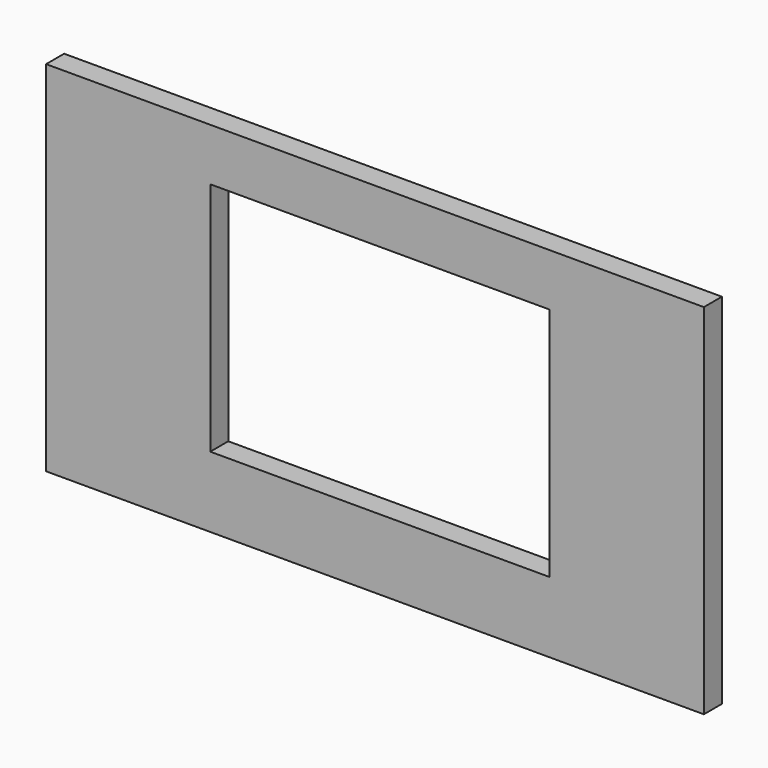
from build123d import *

# Parameters (mm, degrees)
F0_W     = 145.778776
F0_H     = 79.445884
F0_W_2   = 75.186506
F0_H_2   = 52.17734
F1_DEPTH = 2.5


with BuildPart() as f1:
    # F0 (on Front) → F1 (new body, symmetric)
    with BuildSketch(Plane.XZ):
        Rectangle(F0_W, F0_H)
        with Locations((1.087524, 2.030745)):
            Rectangle(F0_W_2, F0_H_2, mode=Mode.SUBTRACT)
    extrude(amount=F1_DEPTH, both=True)


solid = f1.part
